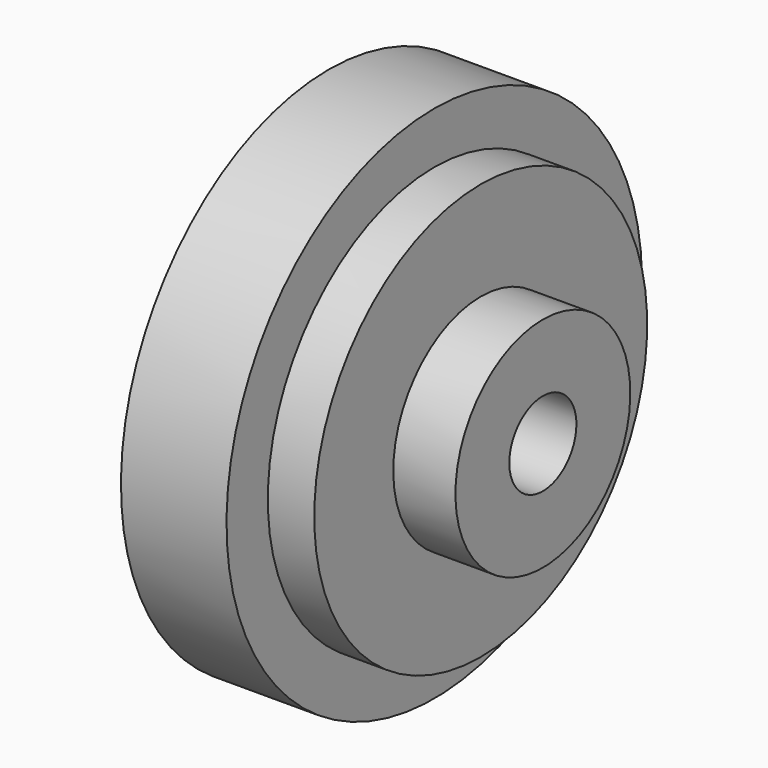
from build123d import *

# Parameters (mm, degrees)
F0_W = 27.4963006377
F0_H = 22.7302610874


with BuildPart() as f1:
    # F0 (on Front) → F1 (revolve)
    with BuildSketch(Plane.XZ):
        with Locations((-13.7481503189, 11.3651305437)):
            Rectangle(F0_W, F0_H)
        Polygon((0, 48.0268597603), (-51.6930520535, 48.0268597603), (-51.6930520535, 0), (-27.4963006377, 0), (-27.4963006377, 22.7302610874), (0, 22.7302610874), align=None)
        Polygon((22.7302908897, 22.7302610874), (0, 22.7302610874), (0, 0), (-27.4963006377, 0), (-27.4963006377, -25.663241744), (22.7302908897, -25.663241744), align=None)
    revolve(axis=Axis((3.2995641232, 0, -79.1893750429), (1, 0, 0)))


with BuildPart() as f1b:
    # F0 (on Front) → F1, piece 2 (revolve)
    with BuildSketch(Plane.XZ):
        Polygon((-27.4963006377, -41.0611778498), (-27.4963006377, -25.663241744), (-64.8912787437, -25.663241744), (-64.8912787437, -58.6588084698), (53.1595349312, -58.6588084698), (53.1595349312, -25.663241744), (22.7302908897, -25.663241744), (22.7302908897, -41.0611778498), align=None)
    revolve(axis=Axis((3.2995641232, 0, -79.1893750429), (1, 0, 0)))


solid = Compound([f1.part, f1b.part])
